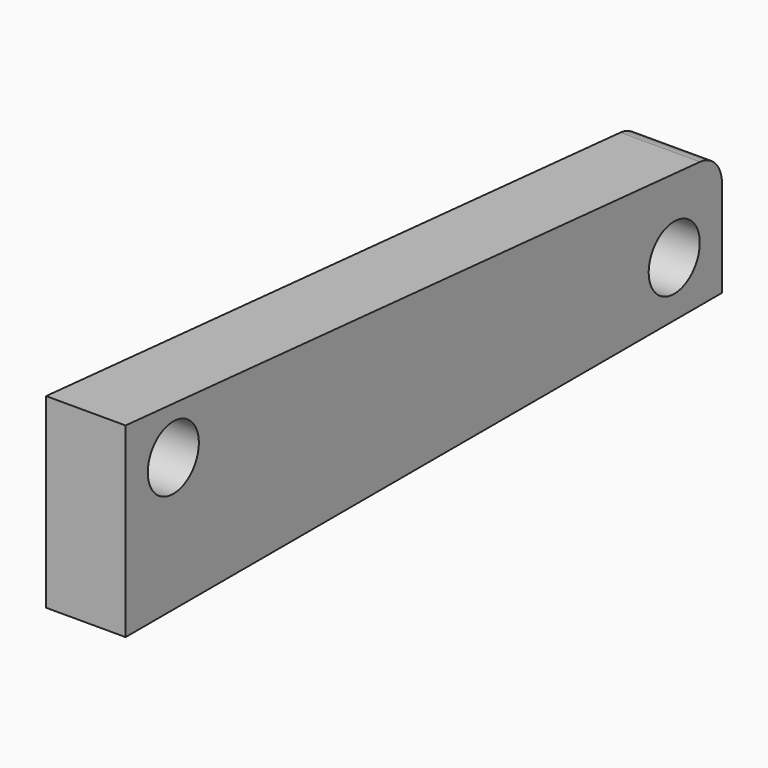
from build123d import *

# Parameters (mm, degrees)
F1_DEPTH = 4.064
F3_D     = 3.2639
F4_R     = 1.524


with BuildPart() as f1:
    # F0 (on Right) → F1 (new body)
    with BuildSketch(Plane.YZ):
        Polygon((-20.6086377689, 9.525), (-20.6086377689, 0), (17.4913622311, 0), (17.4913622311, 6.35), align=None)
    extrude(amount=F1_DEPTH)

    # F3 (through all)
    with Locations(Plane.YZ.offset(4.064)):
        with Locations((-17.5606377689, 6.8387051621), (14.4433622311, 2.8296108316)):
            Hole(F3_D / 2)

    # F4
    f4_edges = [f1.edges().sort_by_distance(p)[0] for p in [
        (2.032, 17.491362, 6.35),
    ]]
    fillet(f4_edges, radius=F4_R)


solid = f1.part
